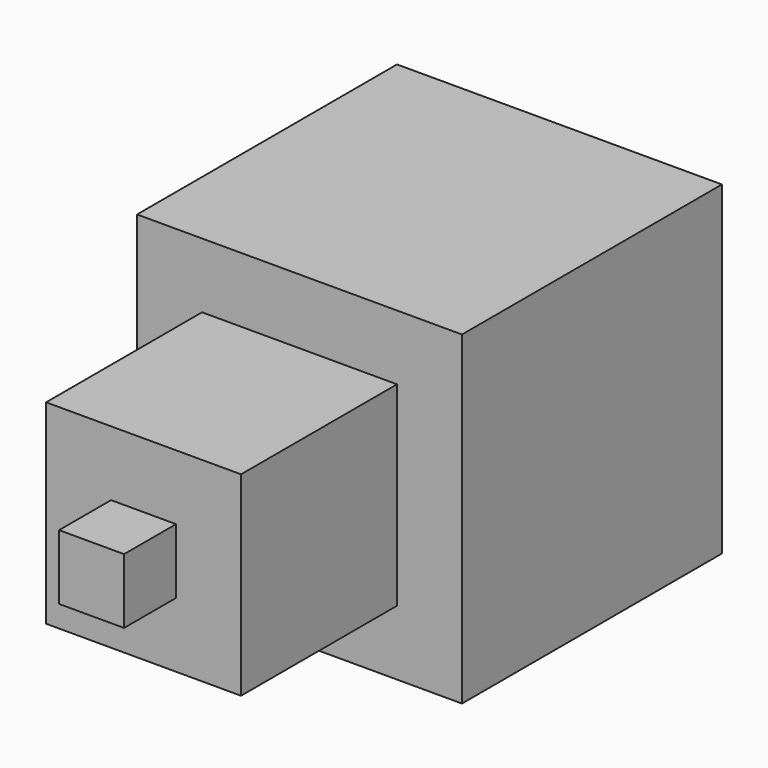
from build123d import *

# Parameters (mm, degrees)
F0_W     = 2540
F0_H     = 2540
F1_DEPTH = 2540
F2_W     = 1524
F2_H     = 1524
F3_DEPTH = 1524
F4_W     = 508
F4_H     = 508
F5_DEPTH = 508
F6_W     = 1270
F6_H     = 1270
F7_DEPTH = 1270


with BuildPart() as f1:
    # F0 (on Right) → F1 (new body)
    with BuildSketch(Plane.YZ):
        Rectangle(F0_W, F0_H)
    extrude(amount=F1_DEPTH)

    # F2 (on face) → F3 (join)
    with BuildSketch(Plane.XZ.offset(1270)):
        with Locations((1270, 0)):
            Rectangle(F2_W, F2_H)
    extrude(amount=F3_DEPTH)

    # F4 (on face) → F5 (join)
    with BuildSketch(Plane.XZ.offset(2794)):
        with Locations((1270, 0)):
            Rectangle(F4_W, F4_H)
    extrude(amount=F5_DEPTH)

    # F6 (on face) → F7 (cut)
    with BuildSketch(Plane(origin=(0, 1270, 0), x_dir=(-1, 0, 0), z_dir=(0, 1, 0))):
        with Locations((-1270, 0)):
            Rectangle(F6_W, F6_H)
    extrude(amount=-F7_DEPTH, mode=Mode.SUBTRACT)


solid = f1.part
